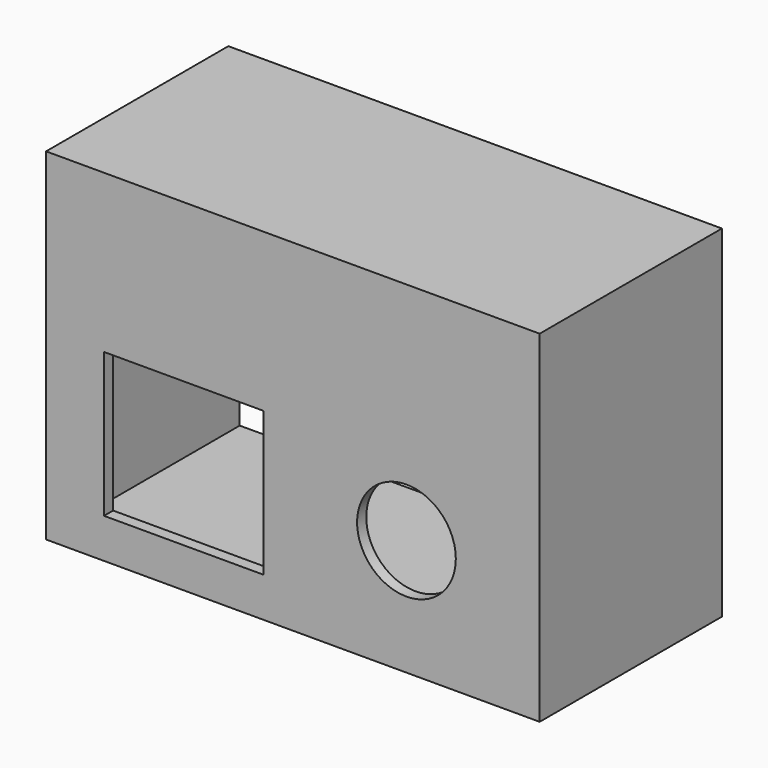
from build123d import *

# Parameters (mm, degrees)
F0_W     = 65
F0_H     = 45
F0_W_2   = 21
F0_H_2   = 19
F0_R     = 6.5
F1_DEPTH = 30
F2_T     = -1.5


with BuildPart() as f1:
    # F0 (on Front) → F1 (new body)
    with BuildSketch(Plane.XZ):
        Rectangle(F0_W, F0_H)
        with Locations((-14.371509, -7.772347)):
            Rectangle(F0_W_2, F0_H_2, mode=Mode.SUBTRACT)
        with Locations((14.958101, -7.185756)):
            Circle(F0_R, mode=Mode.SUBTRACT)
    extrude(amount=F1_DEPTH)

    # F2
    f2_openings = [f1.faces().sort_by_distance(p)[0] for p in [
        (1.566398, 0, 1.694315),
        (-3.871509, -15, -7.772347),
        (8.458101, -15, -7.185756),
        (-24.871509, -15, -7.772347),
        (-14.371509, -15, 1.727653),
        (-14.371509, -15, -17.272347),
    ]]
    offset(amount=F2_T, openings=f2_openings)


solid = f1.part
